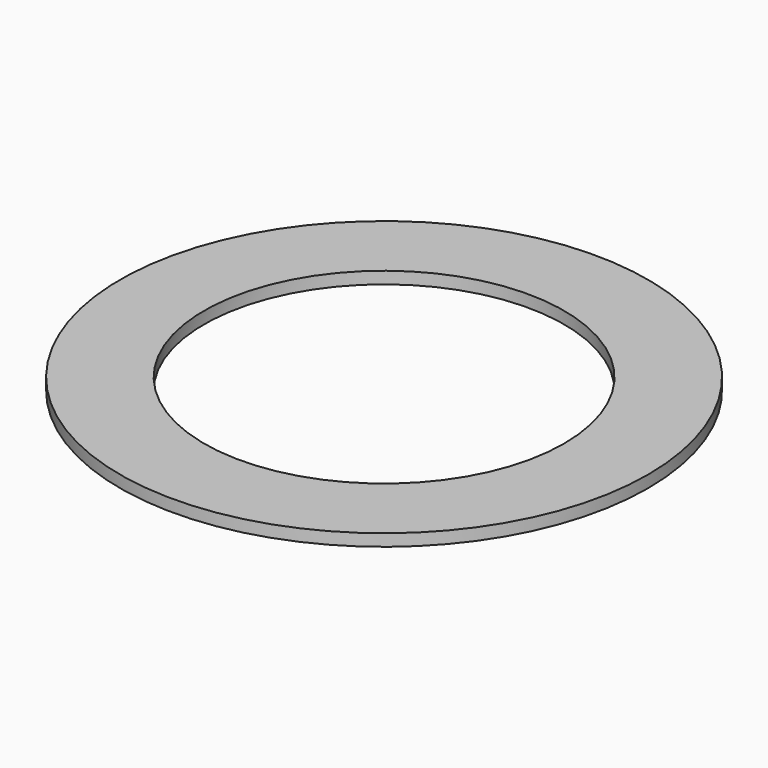
from build123d import *

# Parameters (mm, degrees)
SKETCH_R   = 22
SKETCH_R_2 = 15
PAD_DEPTH  = 1


with BuildPart() as part:
    # Sketch → Pad (new body)
    with BuildSketch(Plane.XY):
        Circle(SKETCH_R)
        Circle(SKETCH_R_2, mode=Mode.SUBTRACT)
    extrude(amount=PAD_DEPTH)


solid = part.part
